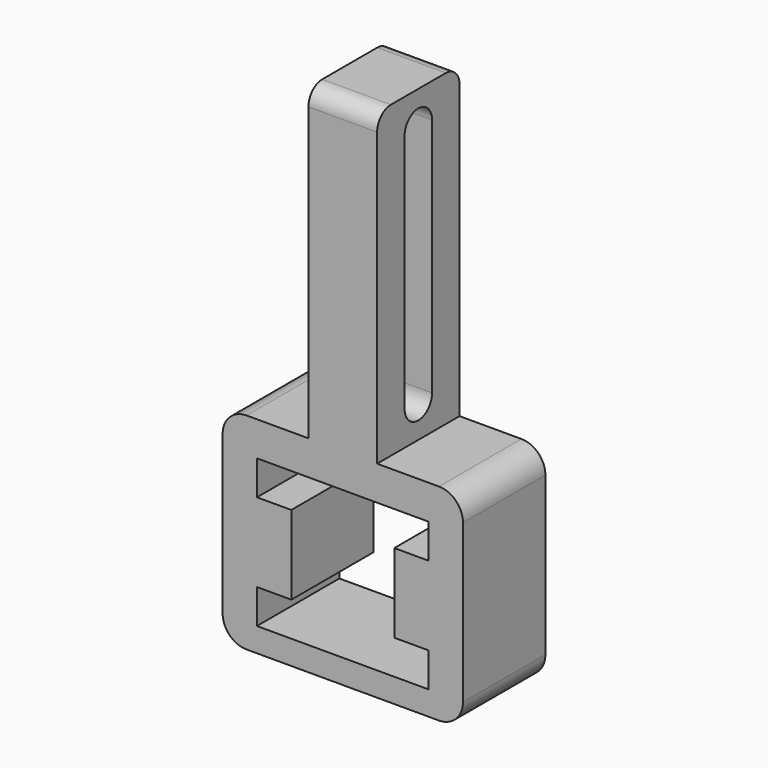
from build123d import *

# Parameters (mm, degrees)
F1_DEPTH = 762
F2_W     = 508
F2_H     = 762
F3_DEPTH = 2286
F4_R     = 127
F6_DEPTH = 1648.46


with BuildPart() as f1:
    # F0 (on Front) → F1 (new body)
    with BuildSketch(Plane.XZ):
        with BuildLine():
            Line((711.2, 762), (-711.2, 762))
            ThreePointArc((-711.2, 762), (-836.923585695, 709.923585695), (-889, 584.2))
            Line((-889, 584.2), (-889, -584.2))
            ThreePointArc((-889, -584.2), (-836.923585695, -709.923585695), (-711.2, -762))
            Line((-711.2, -762), (711.2, -762))
            ThreePointArc((711.2, -762), (836.923585695, -709.923585695), (889, -584.2))
            Line((889, -584.2), (889, 584.2))
            ThreePointArc((889, 584.2), (836.923585695, 709.923585695), (711.2, 762))
        make_face()
        Polygon((635, -584.2), (-635, -584.2), (-635, -330.2), (-381, -330.2), (-381, 177.8), (-381, 254), (-635, 254), (-635, 508), (635, 508), (635, 254), (381, 254), (381, 177.8), (381, -330.2), (635, -330.2), align=None, mode=Mode.SUBTRACT)
    extrude(amount=F1_DEPTH)

    # F2 (on face) → F3 (join)
    with BuildSketch(Plane.XY.offset(762)):
        with Locations((0, -381)):
            Rectangle(F2_W, F2_H)
    extrude(amount=F3_DEPTH)

    # F4
    f4_edges = [f1.edges().sort_by_distance(p)[0] for p in [
        (0, -762, 3048),
        (0, 0, 3048),
    ]]
    fillet(f4_edges, radius=F4_R)


with BuildPart() as f6:
    # F5 (on face) → F6 (new body)
    with BuildSketch(Plane.YZ.offset(254)):
        with BuildLine():
            Line((-254, 1016), (-254, 2794))
            ThreePointArc((-254, 2794), (-381, 2921), (-508, 2794))
            Line((-508, 2794), (-508, 1016))
            ThreePointArc((-508, 1016), (-381, 889), (-254, 1016))
        make_face()
    extrude(amount=-F6_DEPTH)


with BuildPart() as f1_1:
    add(f1.part)

    # F7: cut F6
    add(f6.part, mode=Mode.SUBTRACT)


solid = f1_1.part
